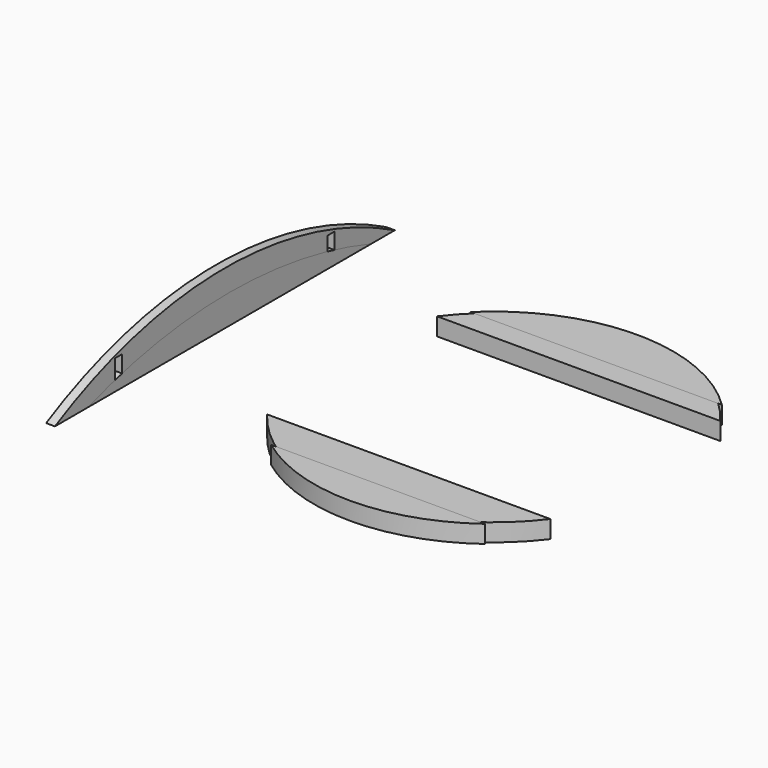
from build123d import *

# Parameters (mm, degrees)
F1_DEPTH = 12.7
F3_DEPTH = 12.7
F5_DEPTH = 25.4
F7_DEPTH = 25.4


with BuildPart() as f1:
    # F0 (on Right) → F1 (new body, symmetric)
    with BuildSketch(Plane.YZ):
        with BuildLine():
            ThreePointArc((609.9298857965, 0), (0.3298857965, 152.4), (-609.2701142035, 0))
            Line((-609.2701142035, 0), (-393.3701142035, 0))
            Line((-393.3701142035, 0), (-393.3701142035, 84.6765860915))
            Line((-393.3701142035, 84.6765860915), (-367.9701142035, 84.6765860915))
            Line((-367.9701142035, 84.6765860915), (-367.9701142035, 0))
            Line((-367.9701142035, 0), (368.6298857965, 0))
            Line((368.6298857965, 0), (368.6298857965, 84.6765860915))
            Line((368.6298857965, 84.6765860915), (394.0298857965, 84.6765860915))
            Line((394.0298857965, 84.6765860915), (394.0298857965, 0))
            Line((394.0298857965, 0), (609.9298857965, 0))
        make_face()
    extrude(amount=F1_DEPTH, both=True)


with BuildPart() as f3:
    # F2 (on Right) → F3 (new body, symmetric)
    with BuildSketch(Plane.YZ):
        with BuildLine():
            ThreePointArc((525.3639318908, 0), (17.3639318908, 84.0486), (-490.6360681092, 0))
            Line((-490.6360681092, 0), (525.3639318908, 0))
        make_face()
    extrude(amount=F3_DEPTH, both=True)


with BuildPart() as f5:
    # F4 (on Top) → F5 (new body, symmetric)
    with BuildSketch(Plane.XY):
        with BuildLine():
            Line((378.0756922902, 304.8), (1190.8756922902, 304.8))
            ThreePointArc((1190.8756922902, 304.8), (784.4756922902, 508), (378.0756922902, 304.8))
        make_face()
    extrude(amount=F5_DEPTH, both=True)


with BuildPart() as f5b:
    # F4 (on Top) → F5, piece 2 (new body, symmetric)
    with BuildSketch(Plane.XY):
        with BuildLine():
            Line((1190.8756922902, -304.8), (378.0756922902, -304.8))
            ThreePointArc((378.0756922902, -304.8), (784.4756922902, -508), (1190.8756922902, -304.8))
        make_face()
    extrude(amount=F5_DEPTH, both=True)


with BuildPart() as f7:
    # F6 (on Top) → F7 (new body, symmetric)
    with BuildSketch(Plane.XY):
        with BuildLine():
            Line((1091.6789331235, -414.3576908381), (477.0328999454, -414.3576908381))
            ThreePointArc((477.0328999454, -414.3576908381), (784.3559165345, -515.9576908381), (1091.6789331235, -414.3576908381))
        make_face()
    extrude(amount=F7_DEPTH, both=True)


with BuildPart() as f7b:
    # F6 (on Top) → F7, piece 2 (new body, symmetric)
    with BuildSketch(Plane.XY):
        with BuildLine():
            ThreePointArc((1144.997792211, 368.1276730559), (784.3559165345, 515.2430623647), (423.714040858, 368.1276730559))
            Line((423.714040858, 368.1276730559), (1144.997792211, 368.1276730559))
        make_face()
    extrude(amount=F7_DEPTH, both=True)


solid = Compound([f1.part, f3.part, f5.part, f5b.part, f7.part, f7b.part])
